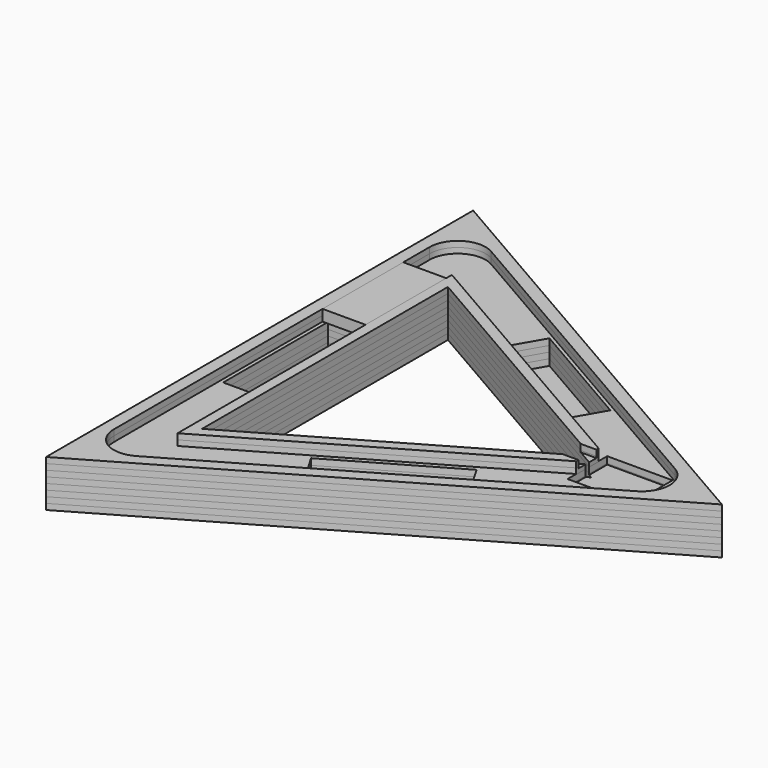
from build123d import *

# Parameters (mm, degrees)
BOX005_W                = 23
BOX005_H                = 54
BOX005_DEPTH            = 6
BOX_BOTTOM_HALF_3_W     = 249.5
BOX_BOTTOM_HALF_3_H     = 287.788383
BOX_BOTTOM_HALF_3_DEPTH = 4.125
BOX_BOTTOM_HALF_1_W     = 249.5
BOX_BOTTOM_HALF_1_H     = 287.788383
BOX_BOTTOM_HALF_1_DEPTH = 7.25
BOX_BOTTOM_HALF_0_W     = 249.5
BOX_BOTTOM_HALF_0_H     = 287.788383
BOX_BOTTOM_HALF_0_DEPTH = 13.5
PRISM003_DEPTH          = 6
PRISM002_DEPTH          = 6
BOX004_W                = 10
BOX004_H                = 12
BOX004_DEPTH            = 4
BOX003_W                = 35
BOX003_H                = 26.5
BOX003_DEPTH            = 10
BOX002_W                = 70
BOX002_H                = 19
BOX002_DEPTH            = 19
BOX002_PLACEMENT_ANGLE  = 30
BOX001_W                = 70
BOX001_H                = 19
BOX001_DEPTH            = 19
BOX001_PLACEMENT_ANGLE  = 90
BOX_W                   = 70
BOX_H                   = 19
BOX_DEPTH               = 19
BOX_PLACEMENT_ANGLE     = 30
PRISM001_DEPTH          = 25
PRISM_DEPTH             = 25
FILLET_R                = 15
BOX_BOTTOM_HALF_4_W     = 249.5
BOX_BOTTOM_HALF_4_H     = 287.788383
BOX_BOTTOM_HALF_4_DEPTH = 4.125
BOX_BOTTOM_HALF_5_W     = 249.5
BOX_BOTTOM_HALF_5_H     = 287.788383
BOX_BOTTOM_HALF_5_DEPTH = 4.125
BOX_BOTTOM_HALF_2_W     = 249.5
BOX_BOTTOM_HALF_2_H     = 287.788383
BOX_BOTTOM_HALF_2_DEPTH = 7.25
BOX_BOTTOM_HALF_6_W     = 249.5
BOX_BOTTOM_HALF_6_H     = 287.788383
BOX_BOTTOM_HALF_6_DEPTH = 4.125


with BuildPart() as box005:
    # Box005 → Box005 (new body)
    with BuildSketch(Plane(origin=(-76, 34, 13), x_dir=(1, 0, 0), z_dir=(0, 0, 1))):
        with Locations((11.5, 27)):
            Rectangle(BOX005_W, BOX005_H)
    extrude(amount=BOX005_DEPTH)


with BuildPart() as box_bottom_half_3_body:
    # box_bottom_half_3 → box_bottom_half_3 (new body)
    with BuildSketch(Plane(origin=(-83.5, -143.894192, -7), x_dir=(1, 0, 0), z_dir=(0, 0, 1))):
        with Locations((124.75, 143.894192)):
            Rectangle(BOX_BOTTOM_HALF_3_W, BOX_BOTTOM_HALF_3_H)
    extrude(amount=BOX_BOTTOM_HALF_3_DEPTH)


with BuildPart() as box_bottom_half_1_body:
    # box_bottom_half_1 → box_bottom_half_1 (new body)
    with BuildSketch(Plane(origin=(-83.5, -143.894192, -7), x_dir=(1, 0, 0), z_dir=(0, 0, 1))):
        with Locations((124.75, 143.894192)):
            Rectangle(BOX_BOTTOM_HALF_1_W, BOX_BOTTOM_HALF_1_H)
    extrude(amount=BOX_BOTTOM_HALF_1_DEPTH)


with BuildPart() as box_bottom_half_0_body:
    # box_bottom_half_0 → box_bottom_half_0 (new body)
    with BuildSketch(Plane(origin=(-83.5, -143.894192, -7), x_dir=(1, 0, 0), z_dir=(0, 0, 1))):
        with Locations((124.75, 143.894192)):
            Rectangle(BOX_BOTTOM_HALF_0_W, BOX_BOTTOM_HALF_0_H)
    extrude(amount=BOX_BOTTOM_HALF_0_DEPTH)


with BuildPart() as prism003:
    # Prism003 → Prism003 (new body)
    with BuildSketch(Plane.XY.offset(13)):
        Polygon((106, 0), (-53, 91.798693), (-53, -91.798693), align=None)
    extrude(amount=PRISM003_DEPTH)


with BuildPart() as cut006:
    # Prism002 → Prism002 (new body)
    with BuildSketch(Plane.XY.offset(13)):
        Polygon((152, 0), (-76, 131.635861), (-76, -131.635861), align=None)
    extrude(amount=PRISM002_DEPTH)

    # Cut006: cut Prism003
    add(prism003.part, mode=Mode.SUBTRACT)


with BuildPart() as box004:
    # Box004 → Box004 (new body)
    with BuildSketch(Plane(origin=(84, -6, 15), x_dir=(1, 0, 0), z_dir=(0, 0, 1))):
        with Locations((5, 6)):
            Rectangle(BOX004_W, BOX004_H)
    extrude(amount=BOX004_DEPTH)


with BuildPart() as box003:
    # Box003 → Box003 (new body)
    with BuildSketch(Plane(origin=(93, -13.3, 9), x_dir=(1, 0, 0), z_dir=(0, 0, 1))):
        with Locations((17.5, 13.25)):
            Rectangle(BOX003_W, BOX003_H)
    extrude(amount=BOX003_DEPTH)


with BuildPart() as box002:
    # Box002 → Box002 (new body)
    with BuildSketch(Plane.XY):
        with Locations((35, 9.5)):
            Rectangle(BOX002_W, BOX002_H)
    extrude(amount=BOX002_DEPTH)


with BuildPart() as box002_1:
    # Box002 placement: moved
    add(box002.part.moved(Location((7, -82, 0))).rotate(Axis((7, -82, 0), (0, 0, 1)), BOX002_PLACEMENT_ANGLE))


with BuildPart() as box001:
    # Box001 → Box001 (new body)
    with BuildSketch(Plane.XY):
        with Locations((35, 9.5)):
            Rectangle(BOX001_W, BOX001_H)
    extrude(amount=BOX001_DEPTH)


with BuildPart() as box001_1:
    # Box001 placement: moved
    add(box001.part.moved(Location((-55, -35, 0))).rotate(Axis((-55, -35, 0), (0, 0, 1)), BOX001_PLACEMENT_ANGLE))


with BuildPart() as box:
    # Box → Box (new body)
    with BuildSketch(Plane.XY):
        with Locations((35, 9.5)):
            Rectangle(BOX_W, BOX_H)
    extrude(amount=BOX_DEPTH)


with BuildPart() as box_1:
    # Box placement: moved
    add(box.part.moved(Location((-2, 65, 0))).rotate(Axis((-2, 65, 0), (0, 0, -1)), BOX_PLACEMENT_ANGLE))


with BuildPart() as prism001:
    # Prism001 → Prism001 (new body)
    with BuildSketch(Plane.XY.offset(-6)):
        Polygon((95, 0), (-47.5, 82.272413), (-47.5, -82.272413), align=None)
    extrude(amount=PRISM001_DEPTH)


with BuildPart() as fillet_body:
    # Prism → Prism (new body)
    with BuildSketch(Plane.XY.offset(-6)):
        Polygon((165, 0), (-82.5, 142.894192), (-82.5, -142.894192), align=None)
    extrude(amount=PRISM_DEPTH)

    # Cut: cut Prism001
    add(prism001.part, mode=Mode.SUBTRACT)

    # Cut001: cut Box
    add(box_1.part, mode=Mode.SUBTRACT)

    # Cut002: cut Box001
    add(box001_1.part, mode=Mode.SUBTRACT)

    # Cut003: cut Box002
    add(box002_1.part, mode=Mode.SUBTRACT)

    # Cut004: cut Box003
    add(box003.part, mode=Mode.SUBTRACT)

    # Cut005: cut Box004
    add(box004.part, mode=Mode.SUBTRACT)

    # Cut007: cut Cut006
    add(cut006.part, mode=Mode.SUBTRACT)

    # Fillet
    fillet_edges = [fillet_body.edges().sort_by_distance(p)[0] for p in [
        (152, 0, 16),
        (-76, 131.635861, 16),
        (-76, -131.635861, 16),
    ]]
    fillet(fillet_edges, radius=FILLET_R)


with BuildPart() as bottom_half_0_body:
    # bottom_half_0 base: copy of Fillet body
    add(fillet_body.part)

    # bottom_half_0: intersect box_bottom_half_0 body
    add(box_bottom_half_0_body.part, mode=Mode.INTERSECT)


with BuildPart() as bottom_half_1_body:
    # bottom_half_1 base: copy of bottom_half_0 body
    add(bottom_half_0_body.part)

    # bottom_half_1: intersect box_bottom_half_1 body
    add(box_bottom_half_1_body.part, mode=Mode.INTERSECT)


with BuildPart() as bottom_half_3_body:
    # bottom_half_3 base: copy of bottom_half_1 body
    add(bottom_half_1_body.part)

    # bottom_half_3: intersect box_bottom_half_3 body
    add(box_bottom_half_3_body.part, mode=Mode.INTERSECT)


with BuildPart() as top_half_3_body:
    # top_half_3 base: copy of bottom_half_1 body
    add(bottom_half_1_body.part)

    # top_half_3: cut box_bottom_half_3 body
    add(box_bottom_half_3_body.part, mode=Mode.SUBTRACT)


with BuildPart() as box_bottom_half_4_body:
    # box_bottom_half_4 → box_bottom_half_4 (new body)
    with BuildSketch(Plane(origin=(-83.5, -143.894192, -0.75), x_dir=(1, 0, 0), z_dir=(0, 0, 1))):
        with Locations((124.75, 143.894192)):
            Rectangle(BOX_BOTTOM_HALF_4_W, BOX_BOTTOM_HALF_4_H)
    extrude(amount=BOX_BOTTOM_HALF_4_DEPTH)


with BuildPart() as top_half_1_body:
    # top_half_1 base: copy of bottom_half_0 body
    add(bottom_half_0_body.part)

    # top_half_1: cut box_bottom_half_1 body
    add(box_bottom_half_1_body.part, mode=Mode.SUBTRACT)


with BuildPart() as bottom_half_4_body:
    # bottom_half_4 base: copy of top_half_1 body
    add(top_half_1_body.part)

    # bottom_half_4: intersect box_bottom_half_4 body
    add(box_bottom_half_4_body.part, mode=Mode.INTERSECT)


with BuildPart() as top_half_4_body:
    # top_half_4 base: copy of top_half_1 body
    add(top_half_1_body.part)

    # top_half_4: cut box_bottom_half_4 body
    add(box_bottom_half_4_body.part, mode=Mode.SUBTRACT)


with BuildPart() as box_bottom_half_5_body:
    # box_bottom_half_5 → box_bottom_half_5 (new body)
    with BuildSketch(Plane(origin=(-83.5, -143.894192, 5.5), x_dir=(1, 0, 0), z_dir=(0, 0, 1))):
        with Locations((124.75, 143.894192)):
            Rectangle(BOX_BOTTOM_HALF_5_W, BOX_BOTTOM_HALF_5_H)
    extrude(amount=BOX_BOTTOM_HALF_5_DEPTH)


with BuildPart() as box_bottom_half_2_body:
    # box_bottom_half_2 → box_bottom_half_2 (new body)
    with BuildSketch(Plane(origin=(-83.5, -143.894192, 5.5), x_dir=(1, 0, 0), z_dir=(0, 0, 1))):
        with Locations((124.75, 143.894192)):
            Rectangle(BOX_BOTTOM_HALF_2_W, BOX_BOTTOM_HALF_2_H)
    extrude(amount=BOX_BOTTOM_HALF_2_DEPTH)


with BuildPart() as top_half_0_body:
    # top_half_0 base: copy of Fillet body
    add(fillet_body.part)

    # top_half_0: cut box_bottom_half_0 body
    add(box_bottom_half_0_body.part, mode=Mode.SUBTRACT)


with BuildPart() as bottom_half_2_body:
    # bottom_half_2 base: copy of top_half_0 body
    add(top_half_0_body.part)

    # bottom_half_2: intersect box_bottom_half_2 body
    add(box_bottom_half_2_body.part, mode=Mode.INTERSECT)


with BuildPart() as bottom_half_5_body:
    # bottom_half_5 base: copy of bottom_half_2 body
    add(bottom_half_2_body.part)

    # bottom_half_5: intersect box_bottom_half_5 body
    add(box_bottom_half_5_body.part, mode=Mode.INTERSECT)


with BuildPart() as top_half_5_body:
    # top_half_5 base: copy of bottom_half_2 body
    add(bottom_half_2_body.part)

    # top_half_5: cut box_bottom_half_5 body
    add(box_bottom_half_5_body.part, mode=Mode.SUBTRACT)


with BuildPart() as box_bottom_half_6_body:
    # box_bottom_half_6 → box_bottom_half_6 (new body)
    with BuildSketch(Plane(origin=(-83.5, -143.894192, 11.75), x_dir=(1, 0, 0), z_dir=(0, 0, 1))):
        with Locations((124.75, 143.894192)):
            Rectangle(BOX_BOTTOM_HALF_6_W, BOX_BOTTOM_HALF_6_H)
    extrude(amount=BOX_BOTTOM_HALF_6_DEPTH)


with BuildPart() as top_half_2_body:
    # top_half_2 base: copy of top_half_0 body
    add(top_half_0_body.part)

    # top_half_2: cut box_bottom_half_2 body
    add(box_bottom_half_2_body.part, mode=Mode.SUBTRACT)


with BuildPart() as bottom_half_6_body:
    # bottom_half_6 base: copy of top_half_2 body
    add(top_half_2_body.part)

    # bottom_half_6: intersect box_bottom_half_6 body
    add(box_bottom_half_6_body.part, mode=Mode.INTERSECT)


with BuildPart() as top_half_6_body:
    # top_half_6 base: copy of top_half_2 body
    add(top_half_2_body.part)

    # top_half_6: cut box_bottom_half_6 body
    add(box_bottom_half_6_body.part, mode=Mode.SUBTRACT)


solid = Compound([box005.part, bottom_half_3_body.part, top_half_3_body.part, bottom_half_4_body.part, top_half_4_body.part, bottom_half_5_body.part, top_half_5_body.part, bottom_half_6_body.part, top_half_6_body.part])
